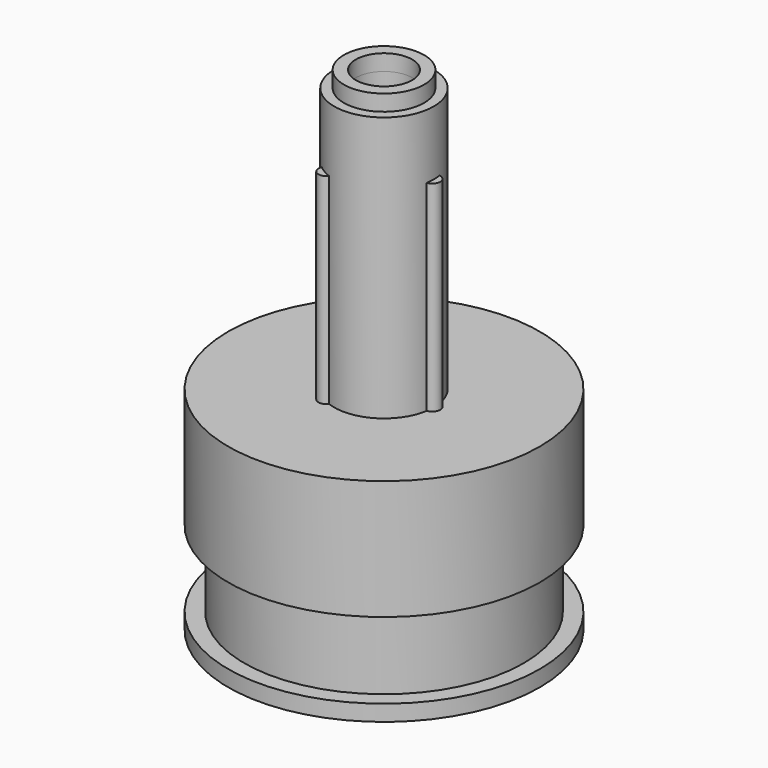
from build123d import *

# Parameters (mm, degrees)
CYLINDER_R                  = 9.7
CYLINDER_DEPTH              = 7.45
CYLINDER001_R               = 8.7
CYLINDER001_DEPTH           = 4.75
CYLINDER002_R               = 9.7
CYLINDER002_DEPTH           = 1
CYLINDER006_R               = 0.5
CYLINDER006_DEPTH           = 12.5
CYLINDER007_R               = 1.75
CYLINDER007_DEPTH           = 16.5
CYLINDER003_R               = 3.1
CYLINDER003_DEPTH           = 16.5
CYLINDER005_R               = 1.75
CYLINDER005_DEPTH           = 1
CYLINDER004_R               = 2.5
CYLINDER004_DEPTH           = 1
CYLINDER008_R               = 0.5
CYLINDER008_DEPTH           = 12.5
CYLINDER008_PLACEMENT_ANGLE = 120
CYLINDER009_R               = 0.5
CYLINDER009_DEPTH           = 12.5
CYLINDER009_PLACEMENT_ANGLE = 240


with BuildPart() as bottom_upper:
    # Cylinder → Cylinder (new body)
    with BuildSketch(Plane.XY.offset(5.75)):
        Circle(CYLINDER_R)
    extrude(amount=CYLINDER_DEPTH)


with BuildPart() as cable_tie_groove:
    # Cylinder001 → Cylinder001 (new body)
    with BuildSketch(Plane.XY.offset(1)):
        Circle(CYLINDER001_R)
    extrude(amount=CYLINDER001_DEPTH)


with BuildPart() as bottom_lower:
    # Cylinder002 → Cylinder002 (new body)
    with BuildSketch(Plane.XY):
        Circle(CYLINDER002_R)
    extrude(amount=CYLINDER002_DEPTH)


with BuildPart() as cylinder006:
    # Cylinder006 → Cylinder006 (new body)
    with BuildSketch(Plane(origin=(3, 0, 13.2), x_dir=(1, 0, 0), z_dir=(0, 0, 1))):
        Circle(CYLINDER006_R)
    extrude(amount=CYLINDER006_DEPTH)


with BuildPart() as cylinder007:
    # Cylinder007 → Cylinder007 (new body)
    with BuildSketch(Plane.XY.offset(13.2)):
        Circle(CYLINDER007_R)
    extrude(amount=CYLINDER007_DEPTH)


with BuildPart() as cut:
    # Cylinder003 → Cylinder003 (new body)
    with BuildSketch(Plane.XY.offset(13.2)):
        Circle(CYLINDER003_R)
    extrude(amount=CYLINDER003_DEPTH)

    # Cut: cut Cylinder007
    add(cylinder007.part, mode=Mode.SUBTRACT)


with BuildPart() as cylinder005:
    # Cylinder005 → Cylinder005 (new body)
    with BuildSketch(Plane.XY.offset(29.7)):
        Circle(CYLINDER005_R)
    extrude(amount=CYLINDER005_DEPTH)


with BuildPart() as cut001:
    # Cylinder004 → Cylinder004 (new body)
    with BuildSketch(Plane.XY.offset(29.7)):
        Circle(CYLINDER004_R)
    extrude(amount=CYLINDER004_DEPTH)

    # Cut001: cut Cylinder005
    add(cylinder005.part, mode=Mode.SUBTRACT)


with BuildPart() as cylinder008:
    # Cylinder008 → Cylinder008 (new body)
    with BuildSketch(Plane.XY):
        Circle(CYLINDER008_R)
    extrude(amount=CYLINDER008_DEPTH)


with BuildPart() as cylinder008_1:
    # Cylinder008 placement: moved
    add(cylinder008.part.moved(Location((-1.5, 2.598076, 13.2))).rotate(Axis((-1.5, 2.598076, 13.2), (0, 0, 1)), CYLINDER008_PLACEMENT_ANGLE))


with BuildPart() as cylinder009:
    # Cylinder009 → Cylinder009 (new body)
    with BuildSketch(Plane.XY):
        Circle(CYLINDER009_R)
    extrude(amount=CYLINDER009_DEPTH)


with BuildPart() as cylinder009_1:
    # Cylinder009 placement: moved
    add(cylinder009.part.moved(Location((-1.5, -2.598076, 13.2))).rotate(Axis((-1.5, -2.598076, 13.2), (0, 0, 1)), CYLINDER009_PLACEMENT_ANGLE))


solid = Compound([bottom_upper.part, cable_tie_groove.part, bottom_lower.part, cylinder006.part, cut.part, cut001.part, cylinder008_1.part, cylinder009_1.part])
